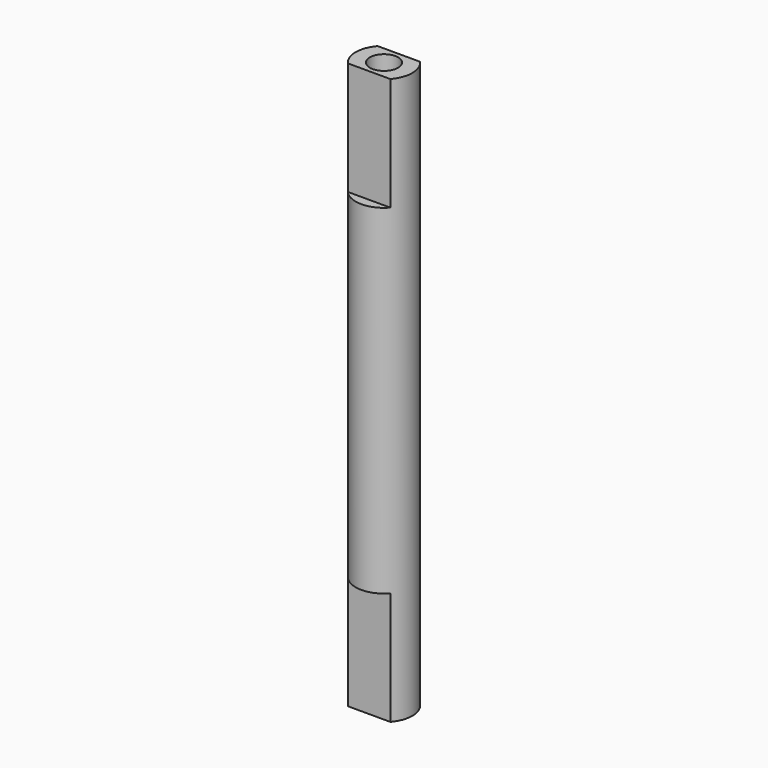
from build123d import *

# Parameters (mm, degrees)
F0_R     = 6.35
F1_DEPTH = 127
F2_R     = 3.175
F3_DEPTH = 13.335
F4_R     = 3.175
F5_DEPTH = 13.335
F7_DEPTH = 25.4
F9_DEPTH = 25.4


with BuildPart() as f1:
    # F0 (on Top) → F1 (new body)
    with BuildSketch(Plane.XY):
        Circle(F0_R)
    extrude(amount=F1_DEPTH)

    # F2 (on face) → F3 (cut)
    with BuildSketch(Plane(origin=(0, 0, 0), x_dir=(1, 0, 0), z_dir=(0, 0, -1))):
        Circle(F2_R)
    extrude(amount=-F3_DEPTH, mode=Mode.SUBTRACT)

    # F4 (on face) → F5 (cut)
    with BuildSketch(Plane.XY.offset(127)):
        Circle(F4_R)
    extrude(amount=-F5_DEPTH, mode=Mode.SUBTRACT)

    # F6 (on face) → F7 (cut)
    with BuildSketch(Plane(origin=(0, 0, 0), x_dir=(1, 0, 0), z_dir=(0, 0, -1))):
        with BuildLine():
            Line((-4.7705365526, 4.191), (4.7705365526, 4.191))
            ThreePointArc((4.7705365526, 4.191), (0, 6.35), (-4.7705365526, 4.191))
        make_face()
        with BuildLine():
            Line((4.7705365526, -4.191), (-4.7705365526, -4.191))
            ThreePointArc((-4.7705365526, -4.191), (0, -6.35), (4.7705365526, -4.191))
        make_face()
    extrude(amount=-F7_DEPTH, mode=Mode.SUBTRACT)

    # F8 (on face) → F9 (cut)
    with BuildSketch(Plane.XY.offset(127)):
        with BuildLine():
            Line((4.7705365526, -4.191), (-4.7705365526, -4.191))
            ThreePointArc((-4.7705365526, -4.191), (0, -6.35), (4.7705365526, -4.191))
        make_face()
        with BuildLine():
            ThreePointArc((4.7705365526, 4.191), (0, 6.35), (-4.7705365526, 4.191))
            Line((-4.7705365526, 4.191), (4.7705365526, 4.191))
        make_face()
    extrude(amount=-F9_DEPTH, mode=Mode.SUBTRACT)


solid = f1.part
